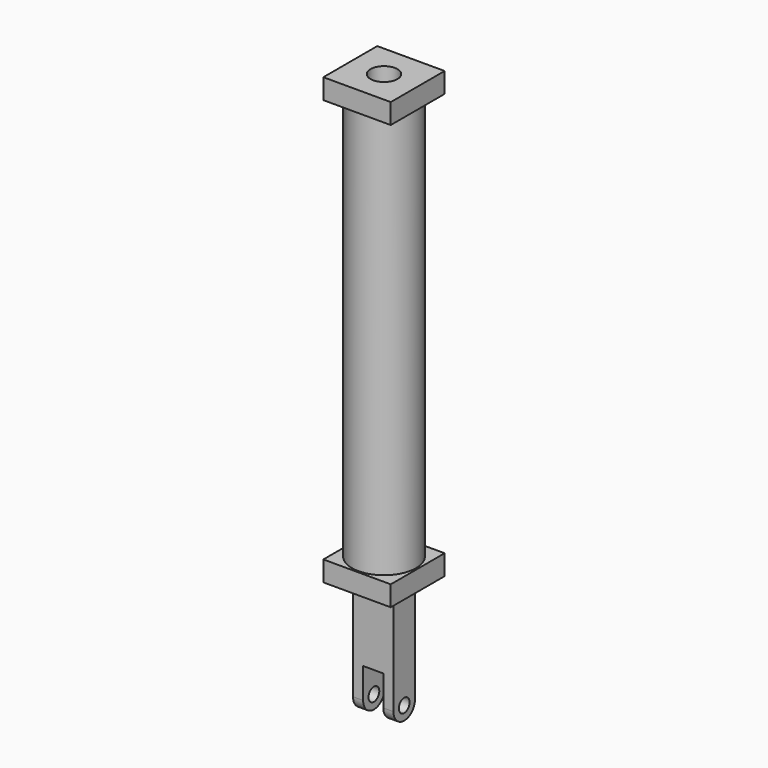
from build123d import *

# Parameters (mm, degrees)
F0_R      = 30.1625
F0_R_2    = 25.4
F1_DEPTH  = 190.5
F3_W      = 63.5
F3_H      = 63.5
F3_R      = 12.7
F4_DEPTH  = 19.05
F6_W      = 63.5
F6_H      = 63.5
F7_DEPTH  = 19.05
F8_W      = 38.1
F8_H      = 25.4
F9_DEPTH  = 98.425
F10_W     = 38.1
F10_H     = 12.7
F13_D     = 12.7
F14_W     = 55.815736
F14_H     = 42.682048
F15_DEPTH = 9.525


with BuildPart() as f1:
    # F0 (on Top) → F1 (new body, symmetric)
    with BuildSketch(Plane.XY):
        Circle(F0_R)
        Circle(F0_R_2, mode=Mode.SUBTRACT)
    extrude(amount=F1_DEPTH, both=True)

    # F3 (on offset) → F4 (join)
    with BuildSketch(Plane.XY.offset(190.5)):
        Rectangle(F3_W, F3_H)
        Circle(F3_R, mode=Mode.SUBTRACT)
    extrude(amount=F4_DEPTH)

    # F6 (on offset) → F7 (join)
    with BuildSketch(Plane(origin=(0, 0, -190.5), x_dir=(1, 0, 0), z_dir=(0, 0, -1))):
        Rectangle(F6_W, F6_H)
    extrude(amount=F7_DEPTH)

    # F8 (on face) → F9 (join)
    with BuildSketch(Plane(origin=(0, 0, -209.55), x_dir=(1, 0, 0), z_dir=(0, 0, -1))):
        Rectangle(F8_W, F8_H)
    extrude(amount=F9_DEPTH)

    # F10 (on face) → F11 (revolve)
    with BuildSketch(Plane(origin=(0, 0, -307.975), x_dir=(1, 0, 0), z_dir=(0, 0, -1))):
        with Locations((0, 6.35)):
            Rectangle(F10_W, F10_H)
    revolve(axis=Axis((0, 0, -307.975), (1, 0, 0)))

    # F13 (through all)
    with Locations(Plane.YZ.offset(19.05)):
        with Locations((0, -307.975)):
            Hole(F13_D / 2)

    # F14 (on Right) → F15 (cut, symmetric)
    with BuildSketch(Plane.YZ):
        with Locations((-0.949135, -300.741024)):
            Rectangle(F14_W, F14_H)
    extrude(amount=F15_DEPTH, both=True, mode=Mode.SUBTRACT)


solid = f1.part
